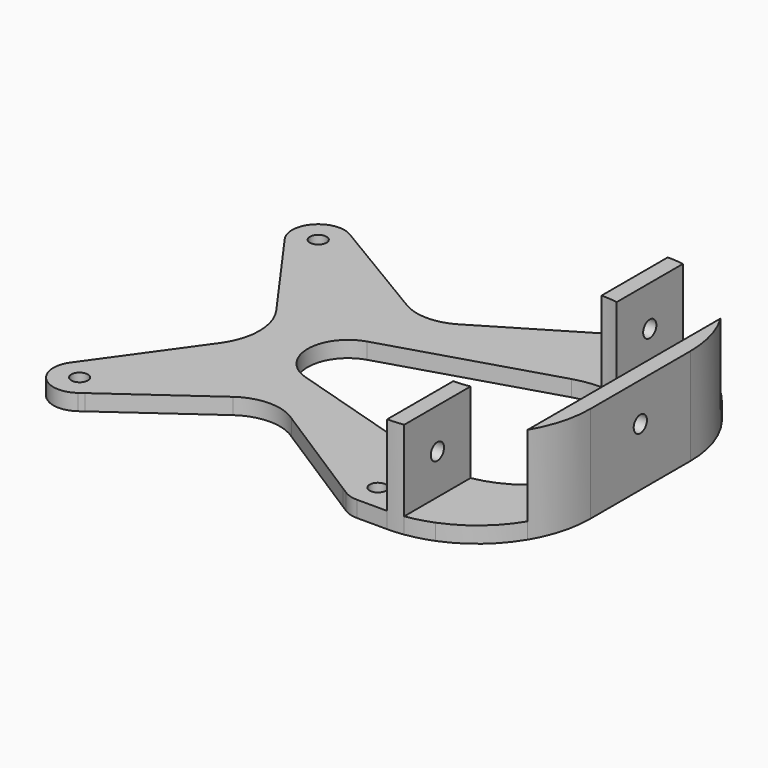
from build123d import *

# Parameters (mm, degrees)
F0_R     = 2.05
F1_DEPTH = 4
F2_DEPTH = 24
F3_R     = 2.05
F4_DEPTH = 4
F5_R     = 2.05
F6_DEPTH = 8


with BuildPart() as f1:
    # F0 (on Top) → F1 (new body)
    with BuildSketch(Plane.XY):
        with BuildLine():
            Line((-28.883019991, 41.5), (-38.7118267615, 41.5))
            ThreePointArc((-38.7118267615, 41.5), (-40.5044236613, 37.4696241641), (-39.3114078672, 33.222972973))
            Line((-39.3114078672, 33.222972973), (-21.8137259274, 8.7162162162))
            ThreePointArc((-21.8137259274, 8.7162162162), (-19.0214110017, 0), (-21.8137259274, -8.7162162162))
            Line((-21.8137259274, -8.7162162162), (-39.3114078672, -33.222972973))
            ThreePointArc((-39.3114078672, -33.222972973), (-40.5044236613, -37.4696241641), (-38.7118267615, -41.5))
            Line((-38.7118267615, -41.5), (-29.1379367842, -41.5))
            Line((-29.1379367842, -41.5), (-5.7376272179, -24.7923149257))
            ThreePointArc((-5.7376272179, -24.7923149257), (1.5258862956, -22.465385821), (8.7893998091, -24.7923149257))
            Line((8.7893998091, -24.7923149257), (34.9485507955, -41.5))
            Line((34.9485507955, -41.5), (47.4785889983, -41.5))
            Line((47.4785889983, -41.5), (47.4785889983, -23))
            ThreePointArc((47.4785889983, -23), (44.0817896822, -22.7477857034), (40.7594878747, -21.9966742961))
            Line((40.7594878747, -21.9966742961), (19.4785892543, -15.4962139126))
            Line((19.4785892543, -15.4962139126), (0.0572406837, -9.5637714331))
            ThreePointArc((0.0572406837, -9.5637714331), (-7.0214110017, 0), (0.0572406837, 9.5637714331))
            Line((0.0572406837, 9.5637714331), (19.4785892543, 15.4962139126))
            Line((19.4785892543, 15.4962139126), (40.7594878747, 21.9966742961))
            ThreePointArc((40.7594878747, 21.9966742961), (44.0817896822, 22.7477857034), (47.4785889983, 23))
            Line((47.4785889983, 23), (47.4785889983, 41.5))
            Line((47.4785889983, 41.5), (34.8401979877, 41.5))
            Line((34.8401979877, 41.5), (9.3975079172, 26.2739811714))
            ThreePointArc((9.3975079172, 26.2739811714), (2.9785889983, 24.5), (-3.4403299206, 26.2739811714))
            Line((-3.4403299206, 26.2739811714), (-28.883019991, 41.5))
        make_face()
        with Locations((-34.0214110017, -37)):
            Circle(F0_R, mode=Mode.SUBTRACT)
        with Locations((39.9785889983, -37)):
            Circle(F0_R, mode=Mode.SUBTRACT)
        with Locations((-34.0214110017, 37)):
            Circle(F0_R, mode=Mode.SUBTRACT)
        with Locations((39.9785889983, 37)):
            Circle(F0_R, mode=Mode.SUBTRACT)
        with BuildLine():
            ThreePointArc((-30.6835731638, 42.5775297909), (-34.8860695304, 43.4422329691), (-38.7118267615, 41.5))
            Line((-38.7118267615, 41.5), (-28.883019991, 41.5))
            Line((-28.883019991, 41.5), (-30.6835731638, 42.5775297909))
        make_face()
        with BuildLine():
            Line((-29.1379367842, -41.5), (-38.7118267615, -41.5))
            ThreePointArc((-38.7118267615, -41.5), (-34.62522679, -43.4718935787), (-30.2443839747, -42.2899968655))
            Line((-30.2443839747, -42.2899968655), (-29.1379367842, -41.5))
        make_face()
        with BuildLine():
            Line((36.6407511605, 42.5775297909), (34.8401979877, 41.5))
            Line((34.8401979877, 41.5), (47.4785889983, 41.5))
            Line((47.4785889983, 41.5), (47.4785889983, 43.5))
            Line((47.4785889983, 43.5), (39.9785889983, 43.5))
            ThreePointArc((39.9785889983, 43.5), (38.2471074998, 43.2651394095), (36.6407511605, 42.5775297909))
        make_face()
        with BuildLine():
            Line((47.4785889983, 43.5), (47.4785889983, 41.5))
            Line((47.4785889983, 41.5), (51.4785889983, 41.5))
            Line((51.4785889983, 41.5), (51.4785889983, 43.2128129211))
            ThreePointArc((51.4785889983, 43.2128129211), (49.4837371486, 43.4281109439), (47.4785889983, 43.5))
        make_face()
        with BuildLine():
            Line((51.4785889983, 41.5), (47.4785889983, 41.5))
            Line((47.4785889983, 41.5), (47.4785889983, 23))
            ThreePointArc((47.4785889983, 23), (49.4862523125, 22.9122082746), (51.4785889983, 22.6495033058))
            Line((51.4785889983, 22.6495033058), (51.4785889983, 41.5))
        make_face()
        with BuildLine():
            Line((57.8708938437, 41.5), (51.4785889983, 41.5))
            Line((51.4785889983, 41.5), (51.4785889983, 22.6495033058))
            ThreePointArc((51.4785889983, 22.6495033058), (70.4785889983, 0), (51.4785889983, -22.6495033058))
            Line((51.4785889983, -22.6495033058), (51.4785889983, -41.5))
            Line((51.4785889983, -41.5), (57.8708938437, -41.5))
            ThreePointArc((57.8708938437, -41.5), (65.6229818463, -36.8255951424), (71.4785889983, -29.9222051019))
            Line((71.4785889983, -29.9222051019), (71.4785889983, 29.9222051019))
            ThreePointArc((71.4785889983, 29.9222051019), (65.6229818463, 36.8255951424), (57.8708938437, 41.5))
        make_face()
        with BuildLine():
            Line((51.4785889983, 43.2128129211), (51.4785889983, 41.5))
            Line((51.4785889983, 41.5), (57.8708938437, 41.5))
            ThreePointArc((57.8708938437, 41.5), (54.7255222612, 42.5459231361), (51.4785889983, 43.2128129211))
        make_face()
        with BuildLine():
            ThreePointArc((75.4785889983, 15.5), (74.4600641248, 22.9833147735), (71.4785889983, 29.9222051019))
            Line((71.4785889983, 29.9222051019), (71.4785889983, -29.9222051019))
            ThreePointArc((71.4785889983, -29.9222051019), (74.4600641248, -22.9833147735), (75.4785889983, -15.5))
            Line((75.4785889983, -15.5), (75.4785889983, 15.5))
        make_face()
        with BuildLine():
            Line((47.4785889983, -23), (47.4785889983, -41.5))
            Line((47.4785889983, -41.5), (51.4785889983, -41.5))
            Line((51.4785889983, -41.5), (51.4785889983, -22.6495033058))
            ThreePointArc((51.4785889983, -22.6495033058), (49.4862523125, -22.9122082746), (47.4785889983, -23))
        make_face()
        with BuildLine():
            Line((57.8708938437, -41.5), (51.4785889983, -41.5))
            Line((51.4785889983, -41.5), (51.4785889983, -43.2128129211))
            ThreePointArc((51.4785889983, -43.2128129211), (54.7255222612, -42.5459231361), (57.8708938437, -41.5))
        make_face()
        with BuildLine():
            Line((51.4785889983, -41.5), (47.4785889983, -41.5))
            Line((47.4785889983, -41.5), (47.4785889983, -43.5))
            ThreePointArc((47.4785889983, -43.5), (49.4837371486, -43.4281109439), (51.4785889983, -43.2128129211))
            Line((51.4785889983, -43.2128129211), (51.4785889983, -41.5))
        make_face()
        with BuildLine():
            Line((47.4785889983, -41.5), (34.9485507955, -41.5))
            Line((34.9485507955, -41.5), (36.4798180214, -42.4780107385))
            ThreePointArc((36.4798180214, -42.4780107385), (38.1561002878, -43.2392735875), (39.9785889983, -43.5))
            Line((39.9785889983, -43.5), (47.4785889983, -43.5))
            Line((47.4785889983, -43.5), (47.4785889983, -41.5))
        make_face()
    extrude(amount=F1_DEPTH)


with BuildPart() as f2:
    # F0 (on Top) → F2 (new body)
    with BuildSketch(Plane.XY):
        with BuildLine():
            Line((47.4785889983, 43.5), (47.4785889983, 41.5))
            Line((47.4785889983, 41.5), (51.4785889983, 41.5))
            Line((51.4785889983, 41.5), (51.4785889983, 43.2128129211))
            ThreePointArc((51.4785889983, 43.2128129211), (49.4837371486, 43.4281109439), (47.4785889983, 43.5))
        make_face()
        with BuildLine():
            Line((51.4785889983, 41.5), (47.4785889983, 41.5))
            Line((47.4785889983, 41.5), (47.4785889983, 23))
            ThreePointArc((47.4785889983, 23), (49.4862523125, 22.9122082746), (51.4785889983, 22.6495033058))
            Line((51.4785889983, 22.6495033058), (51.4785889983, 41.5))
        make_face()
    extrude(amount=F2_DEPTH)


with BuildPart() as f2b:
    # F0 (on Top) → F2, piece 2 (new body)
    with BuildSketch(Plane.XY):
        with BuildLine():
            ThreePointArc((75.4785889983, 15.5), (74.4600641248, 22.9833147735), (71.4785889983, 29.9222051019))
            Line((71.4785889983, 29.9222051019), (71.4785889983, -29.9222051019))
            ThreePointArc((71.4785889983, -29.9222051019), (74.4600641248, -22.9833147735), (75.4785889983, -15.5))
            Line((75.4785889983, -15.5), (75.4785889983, 15.5))
        make_face()
    extrude(amount=F2_DEPTH)

    # F5 (on face) → F6 (cut)
    with BuildSketch(Plane.YZ.offset(75.4785889983)):
        with Locations((0, 14.4133102149)):
            Circle(F5_R)
    extrude(amount=-F6_DEPTH, mode=Mode.SUBTRACT)


with BuildPart() as f2c:
    # F0 (on Top) → F2, piece 3 (new body)
    with BuildSketch(Plane.XY):
        with BuildLine():
            Line((47.4785889983, -23), (47.4785889983, -41.5))
            Line((47.4785889983, -41.5), (51.4785889983, -41.5))
            Line((51.4785889983, -41.5), (51.4785889983, -22.6495033058))
            ThreePointArc((51.4785889983, -22.6495033058), (49.4862523125, -22.9122082746), (47.4785889983, -23))
        make_face()
        with BuildLine():
            Line((51.4785889983, -41.5), (47.4785889983, -41.5))
            Line((47.4785889983, -41.5), (47.4785889983, -43.5))
            ThreePointArc((47.4785889983, -43.5), (49.4837371486, -43.4281109439), (51.4785889983, -43.2128129211))
            Line((51.4785889983, -43.2128129211), (51.4785889983, -41.5))
        make_face()
    extrude(amount=F2_DEPTH)


with BuildPart() as f4_tool:
    # F3 (on face) → F4 (new body, symmetric)
    with BuildSketch(Plane.YZ.offset(51.4785889983)):
        with Locations((-32.9311581135, 14)):
            Circle(F3_R)
        with Locations((32.9311581135, 14)):
            Circle(F3_R)
    extrude(amount=F4_DEPTH, both=True)


with BuildPart() as f2_1:
    add(f2.part)

    # F4: cut by f4_tool
    add(f4_tool.part, mode=Mode.SUBTRACT)


with BuildPart() as f2c_1:
    add(f2c.part)

    # F4: cut by f4_tool
    add(f4_tool.part, mode=Mode.SUBTRACT)


solid = Compound([f1.part, f2b.part, f2_1.part, f2c_1.part])
